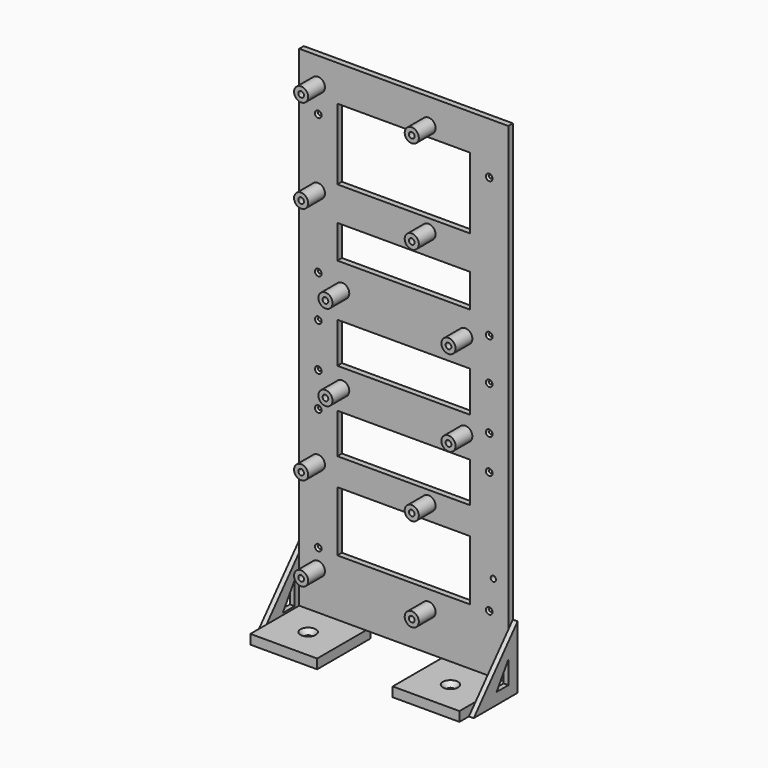
from build123d import *

# Parameters (mm, degrees)
SKETCH_R            = 1.4
SKETCH_W            = 69.6
SKETCH_H            = 21.261902
SKETCH_H_2          = 37.270492
SKETCH_H_3          = 17.445648
SKETCH_H_4          = 21.010353
SKETCH_H_5          = 31.498865
PAD_DEPTH           = 3
SKETCH001_R         = 3.7
SKETCH001_R_2       = 1.5
PAD001_DEPTH        = 11
SKETCH002_W         = 35
SKETCH002_H         = 5
PAD002_DEPTH        = 32
PAD002_DEPTH_BACK   = 3
HOLE_D              = 3.4
HOLE_DEPTH          = 25
HOLE_CSINK_D        = 8
HOLE_CSINK_ANGLE    = 90
PAD003_DEPTH        = 2.5
HOLE002_D           = 1.71
HOLE002_DEPTH       = 25
HOLE002_CSINK_D     = 3.5
HOLE002_CSINK_ANGLE = 90


with BuildPart() as part:
    # Sketch → Pad (new body)
    with BuildSketch(Plane.XZ):
        Polygon((-54.8, 257.006653), (-54.8, 20.406653), (-54.8, 0), (54.8, 0), (54.8, 20.406653), (54.8, 257.006653), align=None)
        with Locations((46.99, 45.5)):
            Circle(SKETCH_R, mode=Mode.SUBTRACT)
        with Locations((0, 127.83873)):
            Rectangle(SKETCH_W, SKETCH_H, mode=Mode.SUBTRACT)
        with Locations((0, 219.541237)):
            Rectangle(SKETCH_W, SKETCH_H_2, mode=Mode.SUBTRACT)
        with Locations((0, 174.45137)):
            Rectangle(SKETCH_W, SKETCH_H_3, mode=Mode.SUBTRACT)
        with Locations((0, 85.985882)):
            Rectangle(SKETCH_W, SKETCH_H_4, mode=Mode.SUBTRACT)
        with Locations((0, 45.447963)):
            Rectangle(SKETCH_W, SKETCH_H_5, mode=Mode.SUBTRACT)
    extrude(amount=-PAD_DEPTH)

    # Sketch001 → Pad001 (join)
    with BuildSketch(Plane.XZ):
        with Locations((-45, 243.58207)):
            Circle(SKETCH001_R)
        with Locations((-45, 243.58207)):
            Circle(SKETCH001_R_2, mode=Mode.SUBTRACT)
        with Locations((13, 243.58207)):
            Circle(SKETCH001_R)
        with Locations((13, 243.58207)):
            Circle(SKETCH001_R_2, mode=Mode.SUBTRACT)
        with Locations((-45, 194.58207)):
            Circle(SKETCH001_R)
        with Locations((-45, 194.58207)):
            Circle(SKETCH001_R_2, mode=Mode.SUBTRACT)
        with Locations((13, 194.58207)):
            Circle(SKETCH001_R)
        with Locations((13, 194.58207)):
            Circle(SKETCH001_R_2, mode=Mode.SUBTRACT)
        with Locations((-45, 69.260145)):
            Circle(SKETCH001_R)
        with Locations((-45, 69.260145)):
            Circle(SKETCH001_R_2, mode=Mode.SUBTRACT)
        with Locations((-45, 20.260145)):
            Circle(SKETCH001_R)
        with Locations((-45, 20.260145)):
            Circle(SKETCH001_R_2, mode=Mode.SUBTRACT)
        with Locations((13, 20.260145)):
            Circle(SKETCH001_R)
        with Locations((13, 20.260145)):
            Circle(SKETCH001_R_2, mode=Mode.SUBTRACT)
        with Locations((13, 69.260145)):
            Circle(SKETCH001_R)
        with Locations((13, 69.260145)):
            Circle(SKETCH001_R_2, mode=Mode.SUBTRACT)
        with Locations((-32.25, 107.638794)):
            Circle(SKETCH001_R)
        with Locations((-32.25, 107.638794)):
            Circle(SKETCH001_R_2, mode=Mode.SUBTRACT)
        with Locations((32.25, 107.638794)):
            Circle(SKETCH001_R)
        with Locations((32.25, 107.638794)):
            Circle(SKETCH001_R_2, mode=Mode.SUBTRACT)
        with Locations((32.25, 152.638794)):
            Circle(SKETCH001_R)
        with Locations((32.25, 152.638794)):
            Circle(SKETCH001_R_2, mode=Mode.SUBTRACT)
        with Locations((-32.25, 152.638794)):
            Circle(SKETCH001_R)
        with Locations((-32.25, 152.638794)):
            Circle(SKETCH001_R_2, mode=Mode.SUBTRACT)
    extrude(amount=PAD001_DEPTH)

    # Sketch002 → Pad002 (join, two sides)
    with BuildSketch(Plane.XZ) as pad002_sk:
        with Locations((-37.3, -2.5)):
            Rectangle(SKETCH002_W, SKETCH002_H)
        with Locations((37.3, -2.5)):
            Rectangle(SKETCH002_W, SKETCH002_H)
    extrude(amount=PAD002_DEPTH)
    extrude(pad002_sk.sketch, amount=-PAD002_DEPTH_BACK)

    # Hole
    with Locations(Plane.XY):
        with Locations((-37.3, -16), (37.3, -16)):
            CounterSinkHole(HOLE_D / 2, HOLE_CSINK_D / 2, depth=HOLE_DEPTH, counter_sink_angle=HOLE_CSINK_ANGLE)

    # Sketch004 (on DatumPlane) → Pad003 (join)
    with BuildSketch(Plane.YZ.offset(54.8)):
        Polygon((-25.8, -5), (3, -5), (3, 28), align=None)
        Polygon((-10.8, 1), (-3, 13), (-3, 1), align=None, mode=Mode.SUBTRACT)
    pad003 = extrude(amount=PAD003_DEPTH)

    # Mirrored: Pad003 across YZ
    add(pad003.mirror(Plane.YZ))

    # Hole002
    with Locations(Plane.XZ):
        with Locations((44.8, 157), (-44.8, 135), (44.8, 135), (-44.8, 112), (-44.8, 94), (44.8, 112), (44.8, 94), (-44.8, 30), (44.8, 30), (-44.8, 157), (-44.8, 230), (44.8, 230)):
            CounterSinkHole(HOLE002_D / 2, HOLE002_CSINK_D / 2, depth=HOLE002_DEPTH, counter_sink_angle=HOLE002_CSINK_ANGLE)


with BuildPart() as part_1:
    # Body placement: moved
    add(part.part.moved(Location((0.2, -1, 0))))


solid = part_1.part
